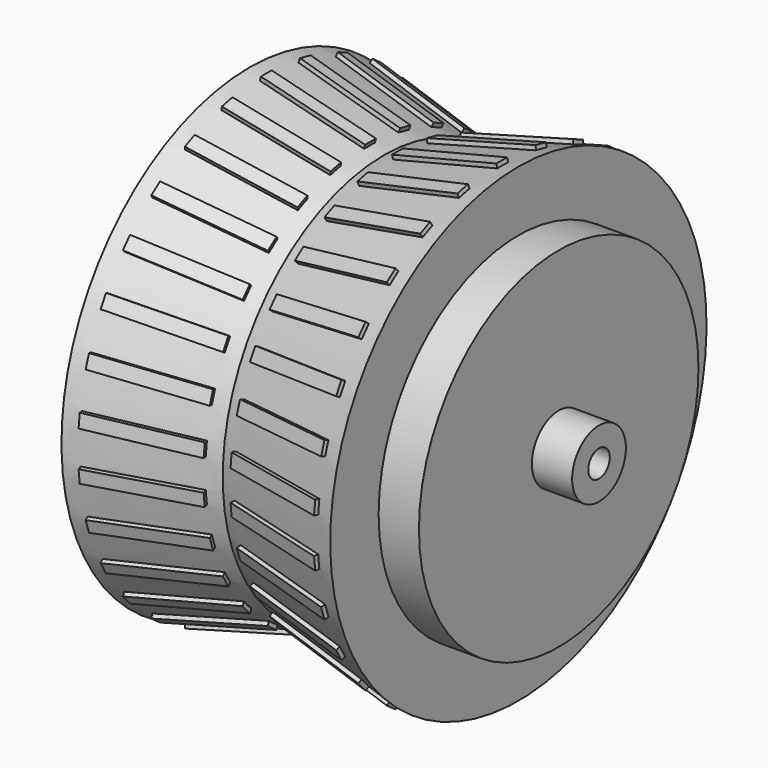
from build123d import *

# Parameters (mm, degrees)
F2_R      = 13
F3_DEPTH  = 3
F4_R      = 2.5
F5_DEPTH  = 3
F7_D      = 2
F8_R      = 11
F8_R_2    = 1
F9_DEPTH  = 18
F11_DEPTH = 0.5
F12_COUNT = 30


with BuildPart() as f1:
    # F0 (on Front) → F1 (revolve)
    with BuildSketch(Plane.XZ):
        Polygon((10, 17.5), (0, 15), (-10, 17.5), (-10, 0), (10, 0), align=None)
    revolve(axis=Axis((0, 0, 0), (1, 0, 0)))

    # F2 (on face) → F3 (join)
    with BuildSketch(Plane.YZ.offset(10)):
        Circle(F2_R)
    extrude(amount=F3_DEPTH)

    # F4 (on face) → F5 (join)
    with BuildSketch(Plane.YZ.offset(13)):
        Circle(F4_R)
    extrude(amount=F5_DEPTH)

    # F7 (through all)
    with Locations(Plane.YZ.offset(16)):
        with Locations((0, 0)):
            Hole(F7_D / 2)

    # F8 (on face) → F9 (cut)
    with BuildSketch(Plane(origin=(-10, 0, 0), x_dir=(0, -1, 0), z_dir=(-1, 0, 0))):
        Circle(F8_R)
        Circle(F8_R_2, mode=Mode.SUBTRACT)
    extrude(amount=-F9_DEPTH, mode=Mode.SUBTRACT)

    # F10 (on Front) → F11 (join, symmetric)
    with BuildSketch(Plane.XZ):
        Polygon((-8.76114, 17.499518), (-9.003676, 16.529375), (-1.242536, 14.58909), (-1, 15.559233), align=None)
        Polygon((1.242536, 14.58909), (9.003676, 16.529375), (8.76114, 17.499518), (1, 15.559233), align=None)
    extrude(amount=F11_DEPTH, both=True)

    # F12: F1 ×30 about axis
    f12_axis = Axis((13, 0, 0), (-1, 0, 0))


with BuildPart() as f1_1:
    add(f1.part)
    for i in range(1, F12_COUNT):
        add(f1.part.rotate(f12_axis, i * 360 / F12_COUNT))


solid = f1_1.part
